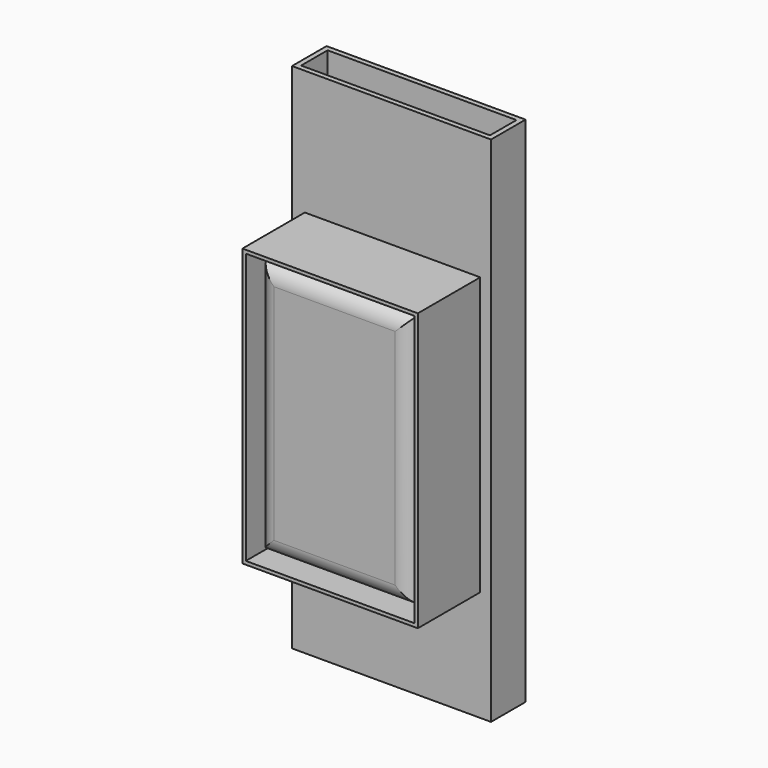
from build123d import *

# Parameters (mm, degrees)
F0_W          = 590
F0_H          = 128
F1_DEPTH      = 1520
F2_W          = 560
F2_H          = 98
F3_DEPTH      = 1520.001
F4_W          = 460
F4_H          = 762
F5_DEPTH      = 215
F5_DEPTH_BACK = 128
F6_R          = 50
F7_W          = 520
F7_H          = 822
F7_W_2        = 500
F7_H_2        = 802
F8_DEPTH      = 231.234834


with BuildPart() as f1:
    # F0 (on Top) → F1 (new body)
    with BuildSketch(Plane.XY):
        Rectangle(F0_W, F0_H)
    extrude(amount=F1_DEPTH)

    # F2 (on face) → F3 (cut, through all)
    with BuildSketch(Plane.XY.offset(1520)):
        Rectangle(F2_W, F2_H)
    extrude(amount=-F3_DEPTH, mode=Mode.SUBTRACT)

    # F4 (on face) → F5 (join, two sides)
    with BuildSketch(Plane.XZ.offset(64)) as f5_sk:
        with Locations((3, 739)):
            Rectangle(F4_W, F4_H)
    extrude(amount=F5_DEPTH)
    extrude(f5_sk.sketch, amount=-F5_DEPTH_BACK)

    # F6
    f6_edges = [f1.edges().sort_by_distance(p)[0] for p in [
        (233, -279, 739),
        (-227, -279, 739),
        (3, -279, 358),
        (3, -279, 1120),
    ]]
    fillet(f6_edges, radius=F6_R)

    # F7 (on face) → F8 (join)
    with BuildSketch(Plane.XZ.offset(64)):
        with Locations((3, 739)):
            Rectangle(F7_W, F7_H)
        with Locations((3, 739)):
            Rectangle(F7_W_2, F7_H_2, mode=Mode.SUBTRACT)
    extrude(amount=F8_DEPTH)


solid = f1.part
